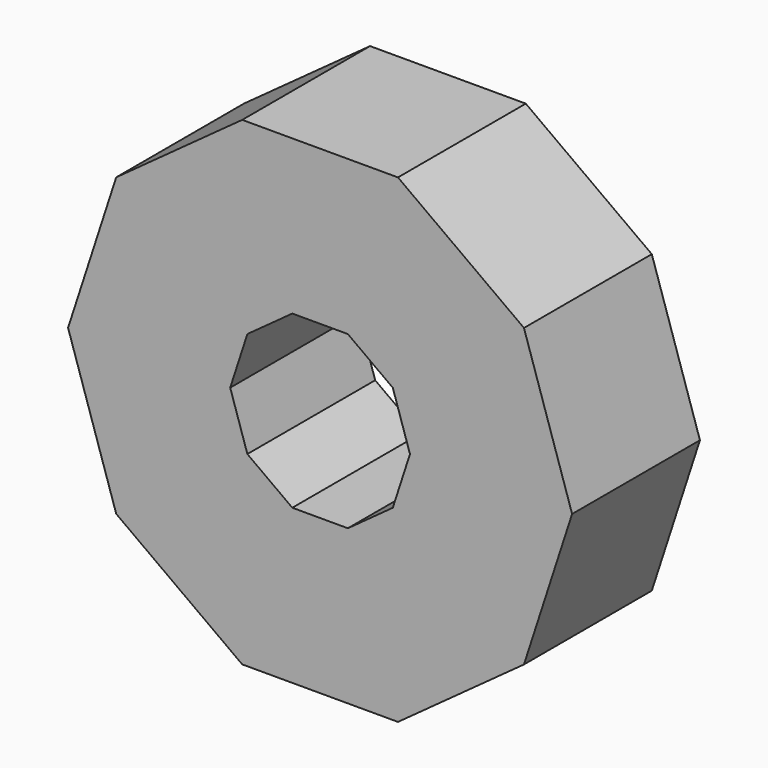
from build123d import *

# Parameters (mm, degrees)
F1_DEPTH = 25.4


with BuildPart() as f1:
    # F0 (on Front) → F1 (new body)
    with BuildSketch(Plane.XZ):
        Polygon((12.37944, 38.1), (0, 38.1), (-12.37944, 38.1), (-32.409796, 23.547095), (-40.060711, 0), (-32.409796, -23.547095), (-12.37944, -38.1), (12.37944, -38.1), (32.409796, -23.547095), (40.060711, 0), (32.409796, 23.547095), align=None)
        Polygon((-4.415334, 13.589), (0, 13.589), (4.415334, 13.589), (11.559494, 8.398464), (14.28832, 0), (11.559494, -8.398464), (4.415334, -13.589), (-4.415334, -13.589), (-11.559494, -8.398464), (-14.28832, 0), (-11.559494, 8.398464), align=None, mode=Mode.SUBTRACT)
    extrude(amount=F1_DEPTH)


solid = f1.part
